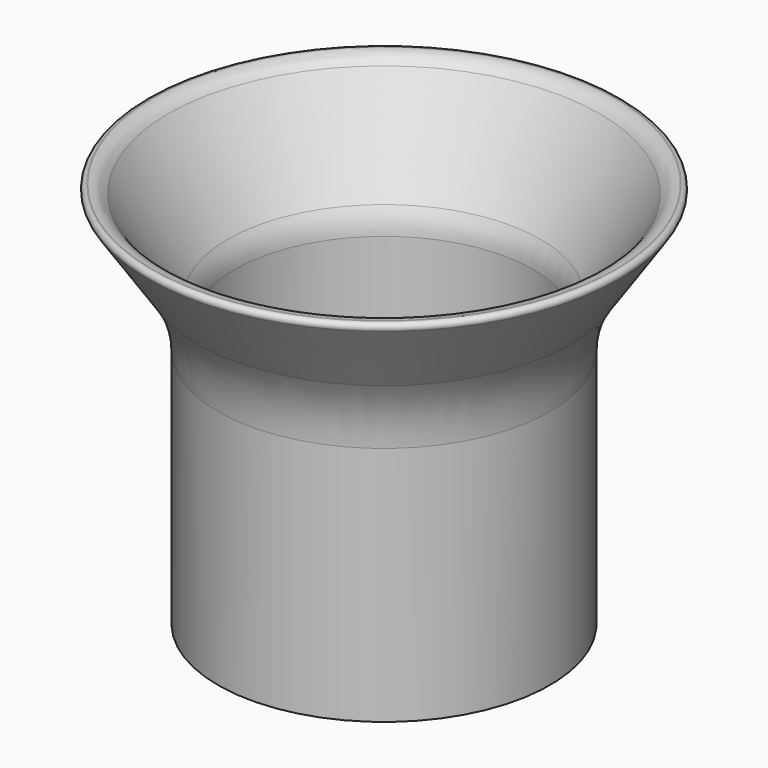
from build123d import *


with BuildPart() as part:
    # Sketch → Revolution (revolve)
    with BuildSketch(Plane.XZ):
        with BuildLine():
            Line((0, 0), (-30, 0))
            Line((-30, 0), (-30, 43.518658))
            ThreePointArc((-30, 43.518658), (-30.926805, 49.716476), (-33.626135, 55.372051))
            Line((-33.626135, 55.372051), (-42.643328, 68.730856))
            ThreePointArc((-41.968787, 70), (-42.687419, 69.568119), (-42.643328, 68.730856))
            Line((-41.968787, 70), (-41.81553, 70))
            ThreePointArc((-39.010557, 68.47778), (-40.219831, 69.594921), (-41.81553, 70))
            Line((-39.010557, 68.47778), (-28.297456, 51.996087))
            ThreePointArc((-27, 47.619295), (-27.331193, 49.901821), (-28.297456, 51.996087))
            Line((-27, 12.91057), (-27, 47.619295))
            ThreePointArc((-27, 12.91057), (-24.243708, 6.256292), (-17.58943, 3.5))
            Line((0, 3.5), (-17.58943, 3.5))
            Line((0, 0), (0, 3.5))
        make_face()
    revolve(axis=Axis((0, 0, 0), (0, 0, 1)))


solid = part.part
